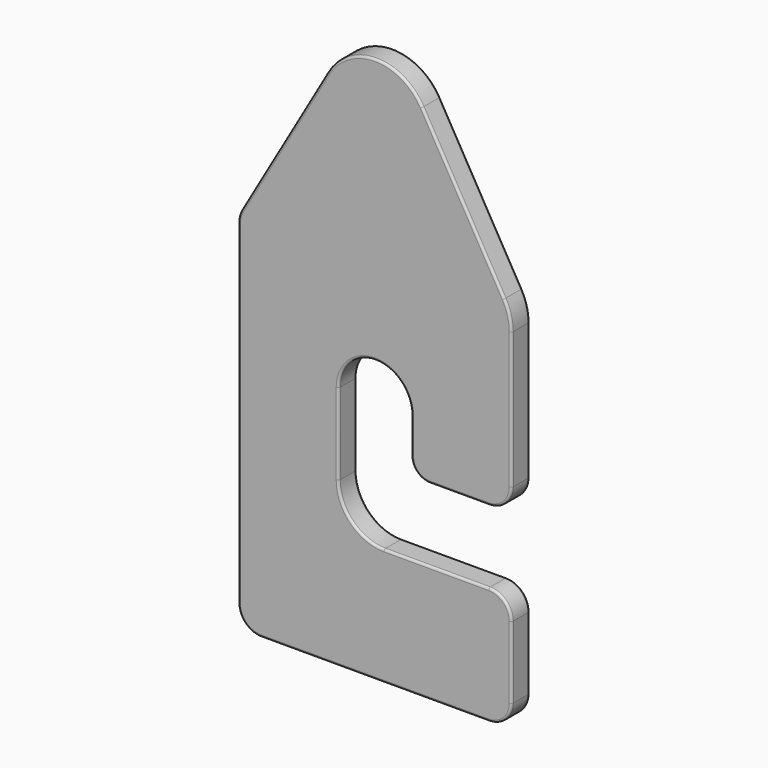
from build123d import *

# Parameters (mm, degrees)
F1_DEPTH = 3.175
F2_R     = 0.3175
F3_R     = 0.3175


with BuildPart() as f1:
    # F0 (on Front) → F1 (new body)
    with BuildSketch(Plane.XZ):
        with BuildLine():
            ThreePointArc((-19.05, -21.065116), (-18.120064, -23.31018), (-15.875, -24.240116))
            Line((-15.875, -24.240116), (15.875, -24.240116))
            ThreePointArc((15.875, -24.240116), (18.120064, -23.31018), (19.05, -21.065116))
            Line((19.05, -21.065116), (19.05, -11.025942))
            ThreePointArc((19.05, -11.025942), (18.120064, -8.780878), (15.875, -7.850942))
            Line((15.875, -7.850942), (1.27, -7.850942))
            ThreePointArc((1.27, -7.850942), (-3.220128, -5.99107), (-5.08, -1.500942))
            Line((-5.08, -1.500942), (-5.08, 9.852602))
            ThreePointArc((-5.08, 9.852602), (0, 14.932602), (5.08, 9.852602))
            Line((5.08, 9.852602), (5.08, 4.849058))
            ThreePointArc((5.08, 4.849058), (5.823949, 3.053007), (7.62, 2.309058))
            Line((7.62, 2.309058), (15.875, 2.309058))
            ThreePointArc((15.875, 2.309058), (18.120064, 3.238994), (19.05, 5.484058))
            Line((19.05, 5.484058), (19.05, 24.518112))
            ThreePointArc((19.05, 24.518112), (18.790355, 26.490313), (18.029114, 28.328112))
            Line((18.029114, 28.328112), (6.599114, 48.125452))
            ThreePointArc((6.599114, 48.125452), (0, 51.935452), (-6.599114, 48.125452))
            Line((-6.599114, 48.125452), (-18.624631, 27.296646))
            ThreePointArc((-18.624631, 27.296646), (-18.941814, 26.530896), (-19.05, 25.709146))
            Line((-19.05, 25.709146), (-19.05, -21.065116))
        make_face()
    extrude(amount=F1_DEPTH)

    # F2
    f2_edges = [f1.edges().sort_by_distance(p)[0] for p in [
        (19.05, -3.175, -16.045529),
        (18.120064, -3.175, -8.780878),
        (8.5725, -3.175, -7.850942),
        (-3.220128, -3.175, -5.99107),
        (-5.08, -3.175, 4.17583),
        (0, -3.175, 14.932602),
        (5.08, -3.175, 7.35083),
        (5.823949, -3.175, 3.053007),
        (11.7475, -3.175, 2.309058),
        (18.120064, -3.175, 3.238994),
        (19.05, -3.175, 15.001085),
        (18.790355, -3.175, 26.490313),
        (12.314114, -3.175, 38.226782),
        (0, -3.175, 51.935452),
        (-12.611872, -3.175, 37.711049),
        (-18.941814, -3.175, 26.530896),
        (-19.05, -3.175, 2.322015),
        (-18.120064, -3.175, -23.31018),
        (0, -3.175, -24.240116),
        (18.120064, -3.175, -23.31018),
    ]]
    fillet(f2_edges, radius=F2_R)

    # F3
    f3_edges = [f1.edges().sort_by_distance(p)[0] for p in [
        (19.05, 0, -16.045529),
        (18.120064, 0, -8.780878),
        (8.5725, 0, -7.850942),
        (-3.220128, 0, -5.99107),
        (-5.08, 0, 4.17583),
        (0, 0, 14.932602),
        (5.08, 0, 7.35083),
        (5.823949, 0, 3.053007),
        (11.7475, 0, 2.309058),
        (18.120064, 0, 3.238994),
        (19.05, 0, 15.001085),
        (18.790355, 0, 26.490313),
        (12.314114, 0, 38.226782),
        (0, 0, 51.935452),
        (-12.611872, 0, 37.711049),
        (-18.941814, 0, 26.530896),
        (-19.05, 0, 2.322015),
        (-18.120064, 0, -23.31018),
        (0, 0, -24.240116),
        (18.120064, 0, -23.31018),
    ]]
    fillet(f3_edges, radius=F3_R)


solid = f1.part
